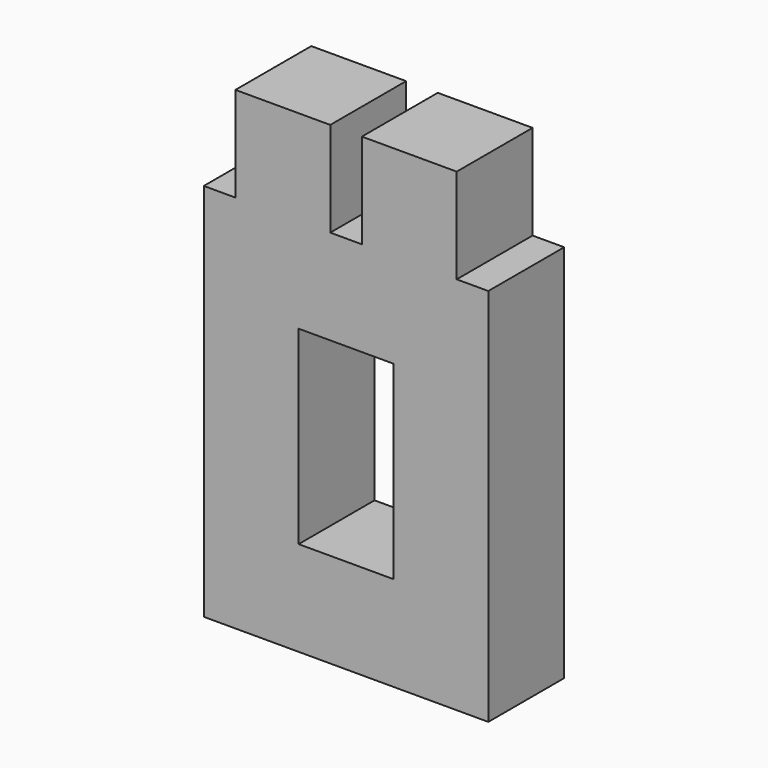
from build123d import *

# Parameters (mm, degrees)
F0_W     = 26.67
F0_H     = 40
F0_W_2   = 13.33
F0_W_3   = 40
F1_DEPTH = 40


with BuildPart() as f1:
    # F0 (on Front) → F1 (new body)
    with BuildSketch(Plane.XZ):
        with Locations((-33.335, 80)):
            Rectangle(F0_W, F0_H)
        with Locations((-13.335, 80)):
            Rectangle(F0_W_2, F0_H)
        with Locations((13.335, 80)):
            Rectangle(F0_W_2, F0_H)
        with Locations((33.335, 80)):
            Rectangle(F0_W, F0_H)
        Polygon((-60, 20), (-20, 20), (-20, 60), (-46.67, 60), (-60, 60), align=None)
        Polygon((20, 20), (20, 60), (6.67, 60), (-6.67, 60), (-20, 60), (-20, 20), align=None)
        Polygon((60, 20), (60, 60), (46.67, 60), (20, 60), (20, 20), align=None)
        with Locations((40, 0)):
            Rectangle(F0_W_3, F0_H)
        with Locations((40, -40)):
            Rectangle(F0_W_3, F0_H)
        with Locations((40, -80)):
            Rectangle(F0_W_3, F0_H)
        with Locations((0, -80)):
            Rectangle(F0_W_3, F0_H)
        with Locations((-40, -80)):
            Rectangle(F0_W_3, F0_H)
        with Locations((-40, -40)):
            Rectangle(F0_W_3, F0_H)
        with Locations((-40, 0)):
            Rectangle(F0_W_3, F0_H)
    extrude(amount=F1_DEPTH)


solid = f1.part
